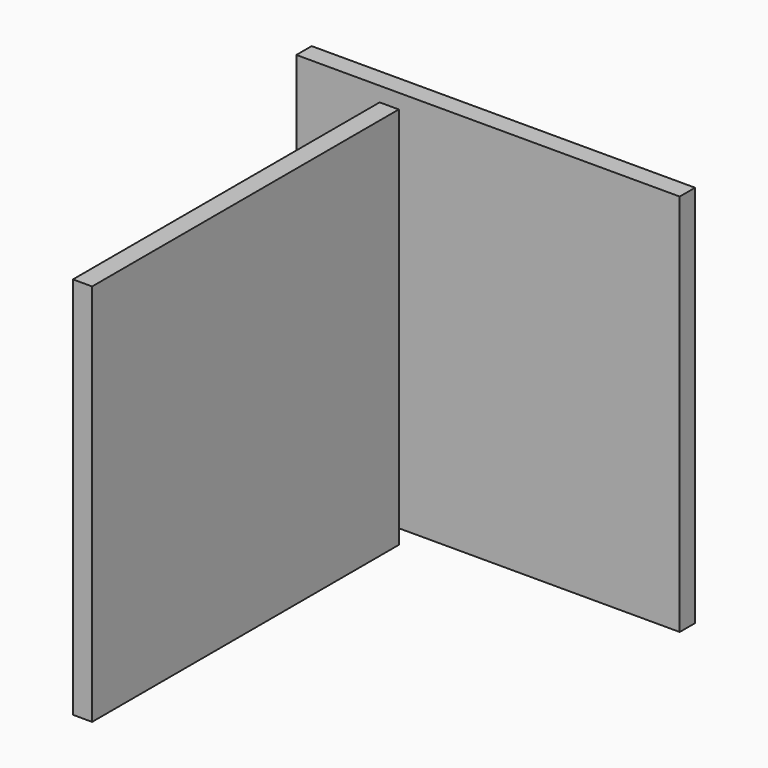
from build123d import *

# Parameters (mm, degrees)
F0_W     = 100
F0_H     = 100
F2_DEPTH = 5
F1_W     = 100
F1_H     = 100
F3_DEPTH = 5


with BuildPart() as f2:
    # F0 (on Front) → F2 (new body)
    with BuildSketch(Plane.XZ):
        with Locations((-0.829917, -0.243225)):
            Rectangle(F0_W, F0_H)
    extrude(amount=F2_DEPTH)


with BuildPart() as f3:
    # F1 (on Right) → F3 (new body)
    with BuildSketch(Plane.YZ):
        with Locations((-91.383204, 20.186656)):
            Rectangle(F1_W, F1_H)
    extrude(amount=F3_DEPTH)


solid = Compound([f2.part, f3.part])
